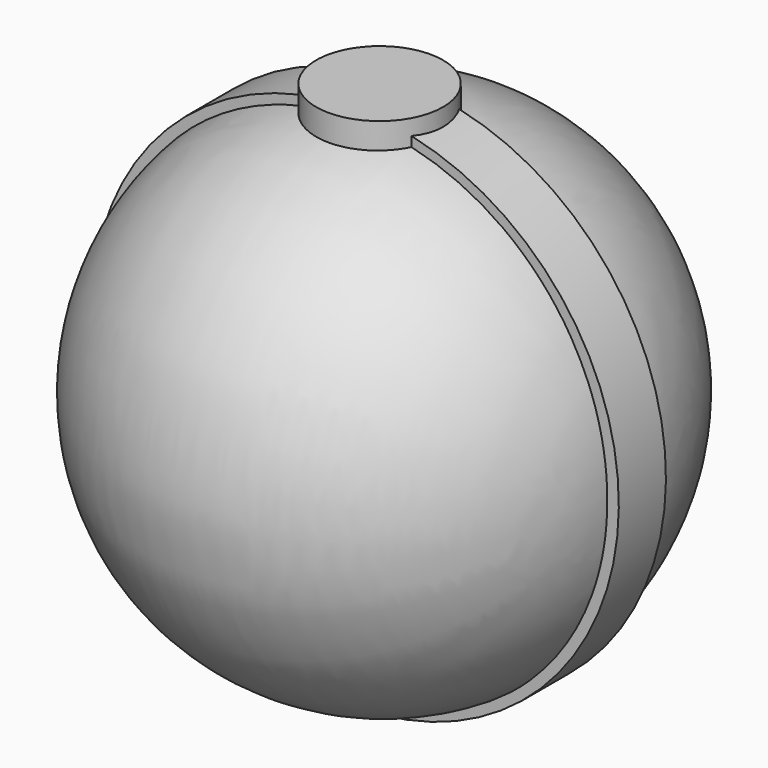
from build123d import *

# Parameters (mm, degrees)
F2_R     = 12.7
F3_DEPTH = 54.61
F4_W     = 41.7934141596
F4_H     = 11.7893260644


with BuildPart() as f1:
    # F0 (on Top) → F1 (revolve)
    with BuildSketch(Plane.XY):
        with BuildLine():
            Line((-50.7989965062, 1.2559996684), (50.7963107073, 0.9630777348))
            ThreePointArc((50.7963107073, 0.9630777348), (0.1464671232, 52.3750908339), (-50.7989965062, 1.2559996684))
        make_face()
    revolve(axis=Axis((-0.0013428994, 1.1095387016, 0), (0.9999958435, -0.0028832111, 0)))

    # F2 (on Top) → F3 (join)
    with BuildSketch(Plane.XY):
        Circle(F2_R)
    extrude(amount=F3_DEPTH)

    # F4 (on Top) → F5 (revolve)
    with BuildSketch(Plane.XY):
        with Locations((-31.7739542802, -0.1169282347)):
            Rectangle(F4_W, F4_H)
    revolve(axis=Axis((0, 0.1544095576, 0), (0, -1, 0)))


solid = f1.part
